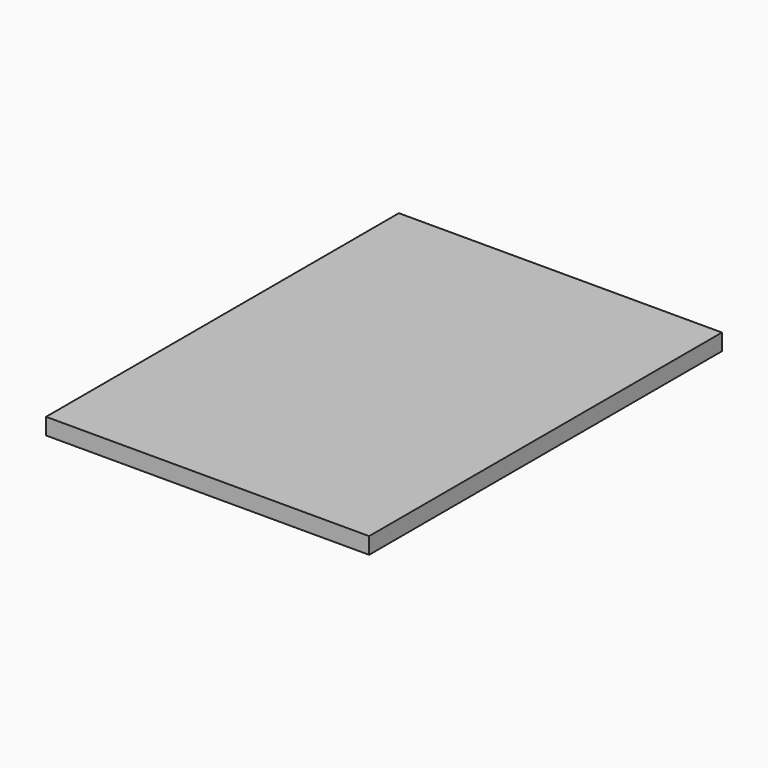
from build123d import *

# Parameters (mm, degrees)
SKETCH_W      = 117.475
SKETCH_H      = 160.3502
EXTRUDE_DEPTH = 5.9944


with BuildPart() as part:
    # Sketch → Extrude (new body)
    with BuildSketch(Plane.XY):
        with Locations((58.7375, -80.1751)):
            Rectangle(SKETCH_W, SKETCH_H)
    extrude(amount=EXTRUDE_DEPTH)


solid = part.part
